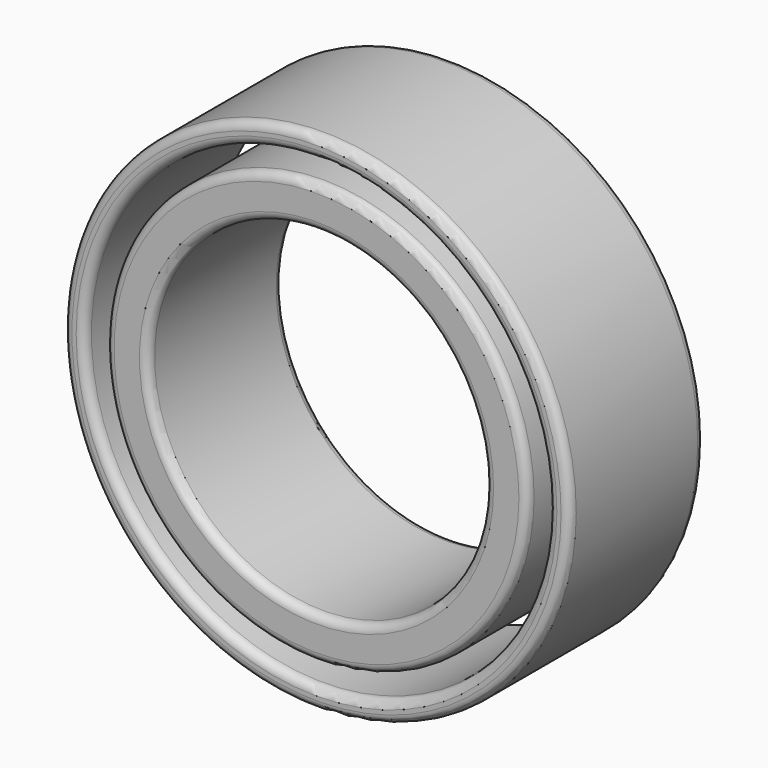
from build123d import *

# Parameters (mm, degrees)
F0_R     = 6
F0_R_2   = 5.5
F0_R_3   = 5
F0_R_4   = 4
F1_DEPTH = 4
F2_R     = 0.2


with BuildPart() as f1:
    # F0 (on Front) → F1 (new body)
    with BuildSketch(Plane.XZ):
        Circle(F0_R)
        Circle(F0_R_2, mode=Mode.SUBTRACT)
        Circle(F0_R_3)
        Circle(F0_R_4, mode=Mode.SUBTRACT)
    extrude(amount=F1_DEPTH)

    # F2
    f2_edges = [f1.edges().sort_by_distance(p)[0] for p in [
        (-5, -4, 0),
        (-4, -4, 0),
        (-5.5, -4, 0),
        (6, -2, 0),
        (-6, 0, 0),
        (-6, -4, 0),
        (-5, 0, 0),
        (-4, 0, 0),
        (-5.5, 0, 0),
    ]]
    fillet(f2_edges, radius=F2_R)


solid = f1.part
